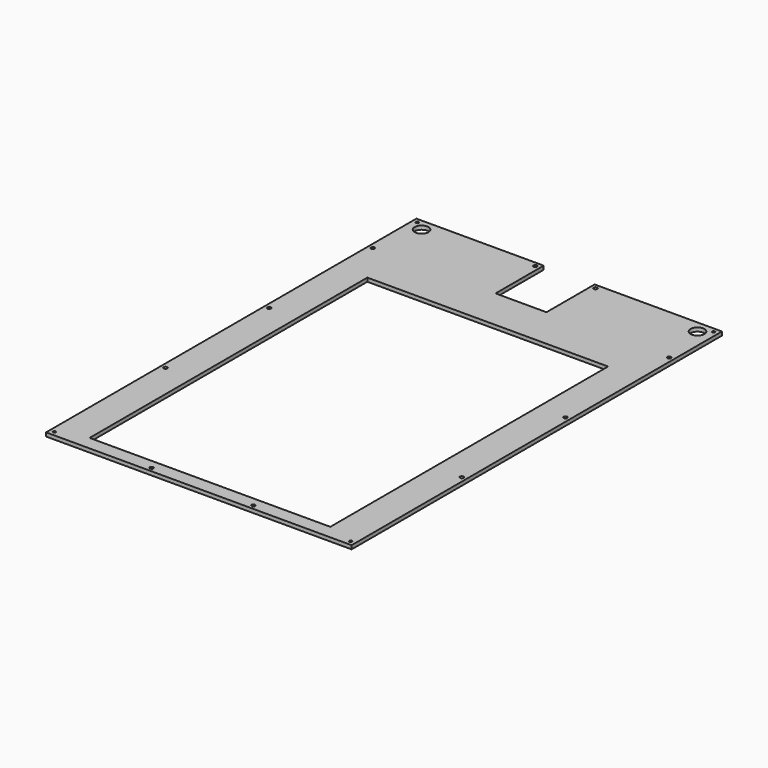
from build123d import *

# Parameters (mm, degrees)
F0_W     = 102.5
F0_H     = 65
F0_R     = 1.95
F0_R_2   = 1.5
F0_R_3   = 7.48
F0_W_2   = 35
F0_H_2   = 15
F0_W_3   = 260
F1_DEPTH = 4


with BuildPart() as f1:
    # F0 (on Top) → F1 (new body)
    with BuildSketch(Plane.XY):
        with Locations((-72.0106637403, 238.5718183894)):
            Rectangle(F0_W, F0_H)
        with Locations((-25.7606637403, 266.0718183894)):
            Circle(F0_R, mode=Mode.SUBTRACT)
        with BuildLine():
            Line((-158.2606637403, 271.0718183894), (-158.2606637403, 206.0718183894))
            Line((-158.2606637403, 206.0718183894), (-155.2106637403, 206.0718183894))
            ThreePointArc((-155.2106637403, 206.0718183894), (-153.2606637403, 208.0218183894), (-151.3106637403, 206.0718183894))
            Line((-151.3106637403, 206.0718183894), (-123.2606637403, 206.0718183894))
            Line((-123.2606637403, 206.0718183894), (-123.2606637403, 271.0718183894))
            Line((-123.2606637403, 271.0718183894), (-158.2606637403, 271.0718183894))
        make_face()
        with Locations((-153.2606637403, 266.0718183894)):
            Circle(F0_R_2, mode=Mode.SUBTRACT)
        with Locations((-142.2606637403, 258.0718183894)):
            Circle(F0_R_3, mode=Mode.SUBTRACT)
        with BuildLine():
            Line((-158.2606637403, 206.0718183894), (-158.2606637403, -213.9281816106))
            Line((-158.2606637403, -213.9281816106), (-123.2606637403, -213.9281816106))
            Line((-123.2606637403, -213.9281816106), (-123.2606637403, 161.0718183894))
            Line((-123.2606637403, 161.0718183894), (-123.2606637403, 206.0718183894))
            Line((-123.2606637403, 206.0718183894), (-151.3106637403, 206.0718183894))
            ThreePointArc((-151.3106637403, 206.0718183894), (-153.2606637403, 204.1218183894), (-155.2106637403, 206.0718183894))
            Line((-155.2106637403, 206.0718183894), (-158.2606637403, 206.0718183894))
        make_face()
        with Locations((-153.2606637403, -73.9281816106)):
            Circle(F0_R, mode=Mode.SUBTRACT)
        with Locations((-153.2606637403, 66.0718183894)):
            Circle(F0_R, mode=Mode.SUBTRACT)
        with Locations((-140.7606637403, -221.4281816106)):
            Rectangle(F0_W_2, F0_H_2)
        with Locations((-153.2606637403, -223.9281816106)):
            Circle(F0_R_2, mode=Mode.SUBTRACT)
        with Locations((6.7393362597, -221.4281816106)):
            Rectangle(F0_W_3, F0_H_2)
        with Locations((-48.2606637403, -223.9281816106)):
            Circle(F0_R, mode=Mode.SUBTRACT)
        with Locations((61.7393362597, -223.9281816106)):
            Circle(F0_R, mode=Mode.SUBTRACT)
        with Locations((154.2393362597, -221.4281816106)):
            Rectangle(F0_W_2, F0_H_2)
        with Locations((166.7393362597, -223.9281816106)):
            Circle(F0_R_2, mode=Mode.SUBTRACT)
        with BuildLine():
            Line((136.7393362597, 161.0718183894), (136.7393362597, -213.9281816106))
            Line((136.7393362597, -213.9281816106), (171.7393362597, -213.9281816106))
            Line((171.7393362597, -213.9281816106), (171.7393362597, 206.0718183894))
            Line((171.7393362597, 206.0718183894), (168.6893362597, 206.0718183894))
            ThreePointArc((168.6893362597, 206.0718183894), (166.7393362597, 204.1218183894), (164.7893362597, 206.0718183894))
            Line((164.7893362597, 206.0718183894), (136.7393362597, 206.0718183894))
            Line((136.7393362597, 206.0718183894), (136.7393362597, 161.0718183894))
        make_face()
        with Locations((166.7393362597, -73.9281816106)):
            Circle(F0_R, mode=Mode.SUBTRACT)
        with Locations((166.7393362597, 66.0718183894)):
            Circle(F0_R, mode=Mode.SUBTRACT)
        with BuildLine():
            Line((168.6893362597, 206.0718183894), (171.7393362597, 206.0718183894))
            Line((171.7393362597, 206.0718183894), (171.7393362597, 271.0718183894))
            Line((171.7393362597, 271.0718183894), (136.7393362597, 271.0718183894))
            Line((136.7393362597, 271.0718183894), (136.7393362597, 206.0718183894))
            Line((136.7393362597, 206.0718183894), (164.7893362597, 206.0718183894))
            ThreePointArc((164.7893362597, 206.0718183894), (166.7393362597, 208.0218183894), (168.6893362597, 206.0718183894))
        make_face()
        with Locations((155.7393362597, 258.0718183894)):
            Circle(F0_R_3, mode=Mode.SUBTRACT)
        with Locations((166.7393362597, 266.0718183894)):
            Circle(F0_R_2, mode=Mode.SUBTRACT)
        with Locations((85.4893362597, 238.5718183894)):
            Rectangle(F0_W, F0_H)
        with Locations((39.2393362597, 266.0718183894)):
            Circle(F0_R, mode=Mode.SUBTRACT)
        Polygon((-123.2606637403, 206.0718183894), (-123.2606637403, 161.0718183894), (136.7393362597, 161.0718183894), (136.7393362597, 206.0718183894), (34.2393362597, 206.0718183894), (-20.7606637403, 206.0718183894), align=None)
    extrude(amount=F1_DEPTH)


solid = f1.part
